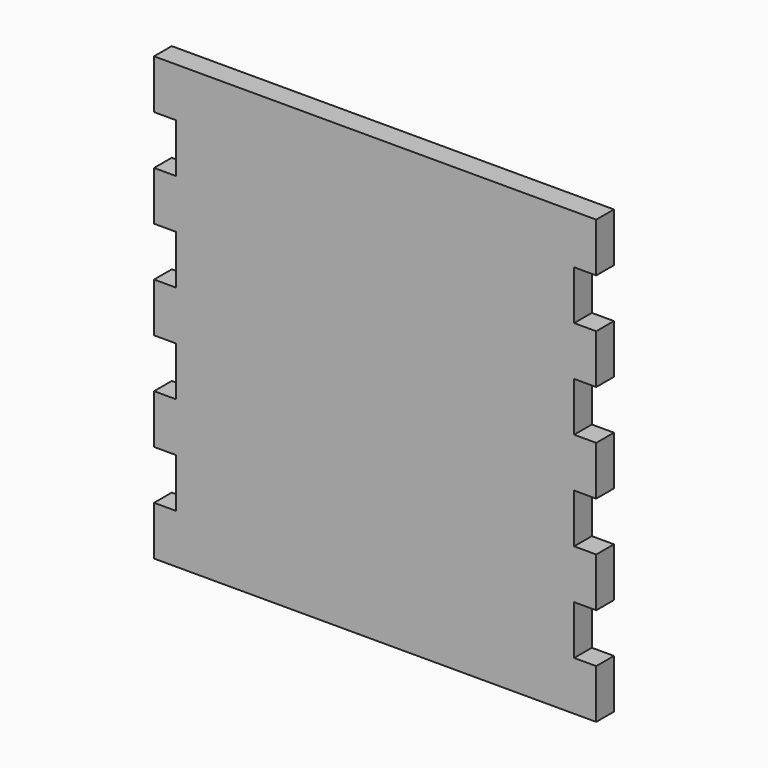
from build123d import *

# Parameters (mm, degrees)
F0_W     = 10
F0_H     = 22.222222
F1_DEPTH = 10


with BuildPart() as f1:
    # F0 (on Front) → F1 (new body)
    with BuildSketch(Plane.XZ):
        Polygon((14.674707, 226.05342), (-185.325293, 226.05342), (-185.325293, 203.831198), (-175.325293, 203.831198), (-175.325293, 181.608976), (-185.325293, 181.608976), (-185.325293, 159.386754), (-175.325293, 159.386754), (-175.325293, 137.164531), (-185.325293, 137.164531), (-185.325293, 114.942309), (-175.325293, 114.942309), (-175.325293, 92.720087), (-185.325293, 92.720087), (-185.325293, 70.497865), (-175.325293, 70.497865), (-175.325293, 48.275642), (-175.325293, 26.05342), (14.674707, 26.05342), (14.674707, 48.275642), (4.674707, 48.275642), (4.674707, 70.497865), (14.674707, 70.497865), (14.674707, 92.720087), (4.674707, 92.720087), (4.674707, 114.942309), (14.674707, 114.942309), (14.674707, 137.164531), (4.674707, 137.164531), (4.674707, 159.386754), (14.674707, 159.386754), (14.674707, 181.608976), (4.674707, 181.608976), (4.674707, 203.831198), (14.674707, 203.831198), align=None)
        with Locations((-180.325293, 37.164531)):
            Rectangle(F0_W, F0_H)
    extrude(amount=F1_DEPTH)


solid = f1.part
